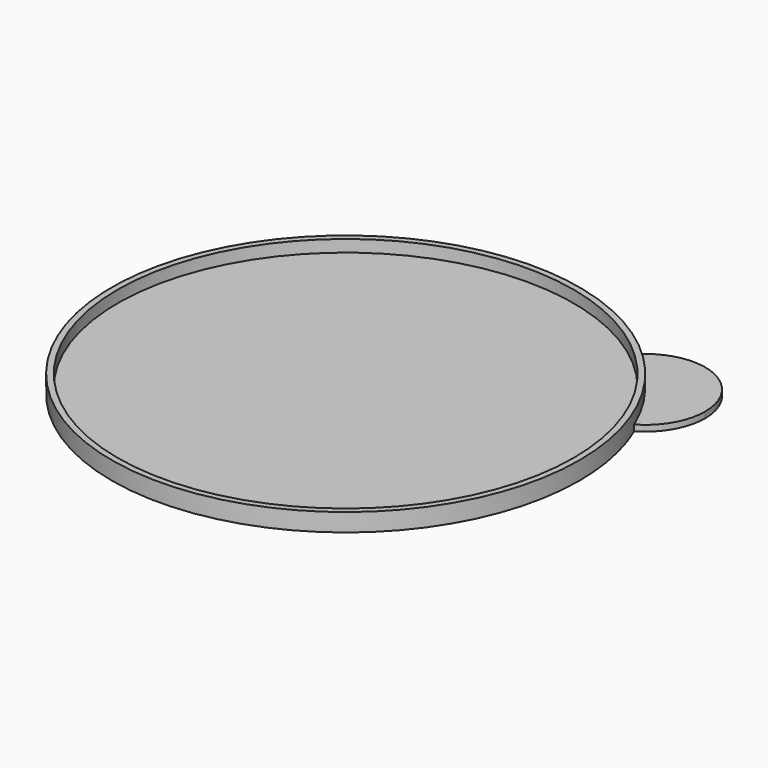
from build123d import *

# Parameters (mm, degrees)
F0_R     = 38
F2_DEPTH = 1
F1_R     = 39
F1_R_2   = 38
F3_DEPTH = 3
F5_DEPTH = 1


with BuildPart() as f2:
    # F0 (on Top) → F2 (new body)
    with BuildSketch(Plane.XY):
        Circle(F0_R)
    extrude(amount=F2_DEPTH)

    # F1 (on face) → F3 (join)
    with BuildSketch(Plane.XY):
        Circle(F1_R)
        Circle(F1_R_2, mode=Mode.SUBTRACT)
    extrude(amount=F3_DEPTH)

    # F4 (on face) → F5 (join)
    with BuildSketch(Plane.XY):
        with BuildLine():
            ThreePointArc((34.987762, 14.827558), (39.228789, 18.517583), (40.808919, 23.91256))
            ThreePointArc((40.808919, 23.91256), (34.152493, 33.337024), (23.044816, 30.214838))
            ThreePointArc((23.044816, 30.214838), (30.018946, 23.299418), (34.987762, 14.827558))
        make_face()
    extrude(amount=F5_DEPTH)


solid = f2.part
